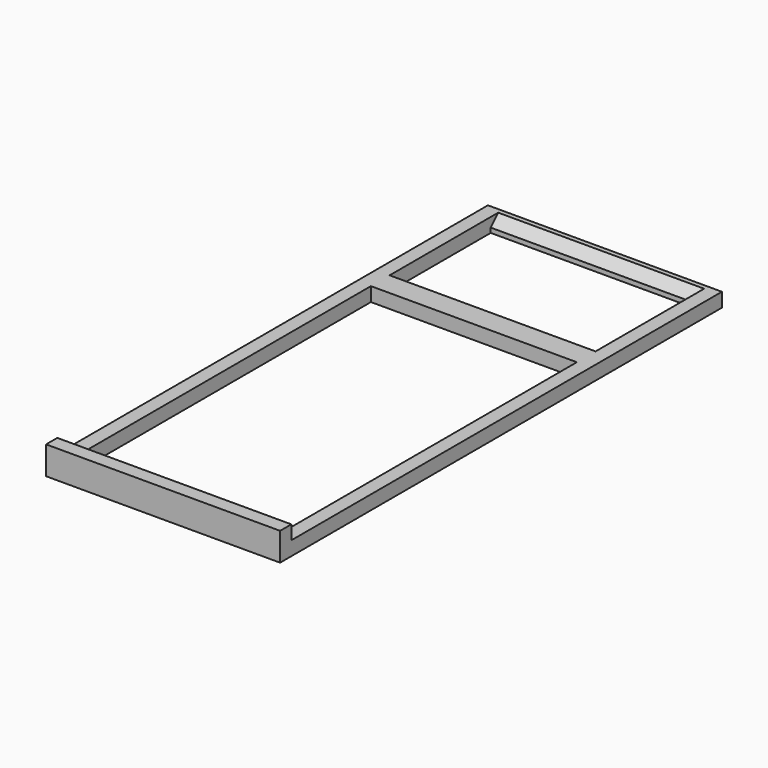
from build123d import *

# Parameters (mm, degrees)
SKETCH_W        = 50
SKETCH_H        = 118
PAD_DEPTH       = 3
SKETCH001_W     = 50
SKETCH001_H     = 3
PAD001_DEPTH    = 3
SKETCH002_W     = 44
SKETCH002_H     = 78
SKETCH002_H_2   = 27
POCKET_DEPTH    = 3
CHAMFER_SIZE    = 2
CHAMFER001_SIZE = 1


with BuildPart() as part:
    # Sketch → Pad (new body)
    with BuildSketch(Plane.XY):
        with Locations((25, 59)):
            Rectangle(SKETCH_W, SKETCH_H)
    extrude(amount=PAD_DEPTH)

    # Sketch001 (on Face6 of Pad) → Pad001 (join)
    with BuildSketch(Plane.XY.offset(3)):
        with Locations((25, 1.5)):
            Rectangle(SKETCH001_W, SKETCH001_H)
    extrude(amount=PAD001_DEPTH)

    # Sketch002 (on Face3 of Pad001) → Pocket (cut)
    with BuildSketch(Plane.XY.offset(3)):
        with Locations((25, 44)):
            Rectangle(SKETCH002_W, SKETCH002_H)
        with Locations((25, 101.5)):
            Rectangle(SKETCH002_W, SKETCH002_H_2)
    extrude(amount=-POCKET_DEPTH, mode=Mode.SUBTRACT)

    # Chamfer
    chamfer_edges = [part.edges().sort_by_distance(p)[0] for p in [
        (25, 115, 3),
    ]]
    chamfer(chamfer_edges, length=CHAMFER_SIZE)

    # Chamfer001
    chamfer001_edges = [part.edges().sort_by_distance(p)[0] for p in [
        (25, 5, 3),
    ]]
    chamfer(chamfer001_edges, length=CHAMFER001_SIZE)


solid = part.part
